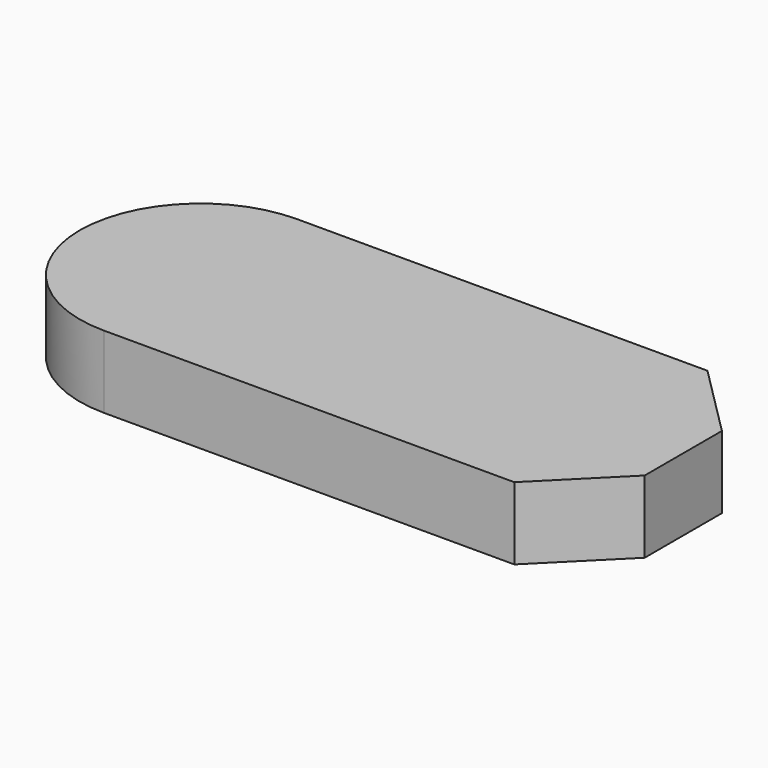
from build123d import *

# Parameters (mm, degrees)
F1_DEPTH = 9


with BuildPart() as f1:
    # F0 (on Top) → F1 (new body)
    with BuildSketch(Plane.XY):
        with BuildLine():
            ThreePointArc((0, 30), (-15, 15), (0, 0))
            Line((0, 0), (51, 0))
            Line((51, 0), (60, 9))
            Line((60, 9), (60, 21))
            Line((60, 21), (51, 30))
            Line((51, 30), (0, 30))
        make_face()
    extrude(amount=F1_DEPTH)


solid = f1.part
